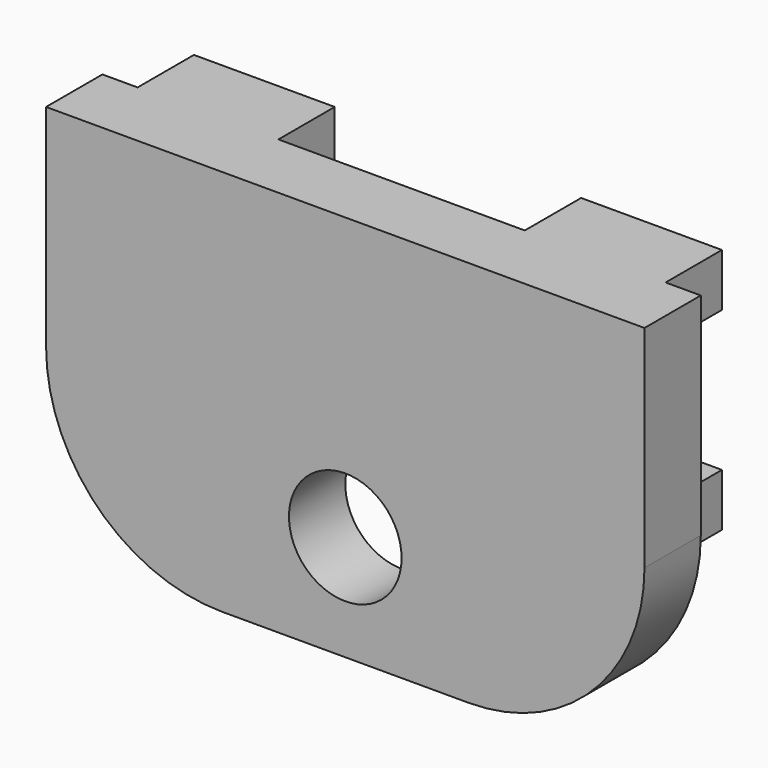
from build123d import *

# Parameters (mm, degrees)
CYLINDER067_R     = 1.6
CYLINDER067_DEPTH = 2
BOX164_W          = 17
BOX164_H          = 2
BOX164_DEPTH      = 11
FILLET036_R       = 5
BOX165_W          = 4
BOX165_H          = 2
BOX165_DEPTH      = 1.5
BOX167_W          = 4
BOX167_H          = 2
BOX167_DEPTH      = 1.5
BOX166_W          = 4
BOX166_H          = 2
BOX166_DEPTH      = 1.5
BOX168_W          = 4
BOX168_H          = 2
BOX168_DEPTH      = 1.5


with BuildPart() as cylinder148:
    # Cylinder067 → Cylinder067 (new body)
    with BuildSketch(Plane(origin=(46.5, -17, -9), x_dir=(1, 0, 0), z_dir=(0, -1, 0))):
        Circle(CYLINDER067_R)
    extrude(amount=CYLINDER067_DEPTH)


with BuildPart() as cut092:
    # Box164 → Box164 (new body)
    with BuildSketch(Plane(origin=(38, -19, -12), x_dir=(1, 0, 0), z_dir=(0, 0, 1))):
        with Locations((8.5, 1)):
            Rectangle(BOX164_W, BOX164_H)
    extrude(amount=BOX164_DEPTH)

    # Fillet036
    fillet036_edges = [cut092.edges().sort_by_distance(p)[0] for p in [
        (38, -18, -12),
        (55, -18, -12),
    ]]
    fillet(fillet036_edges, radius=FILLET036_R)

    # Cut092: cut Cylinder148
    add(cylinder148.part, mode=Mode.SUBTRACT)


with BuildPart() as cube154:
    # Box165 → Box165 (new body)
    with BuildSketch(Plane(origin=(39, -17, -2.5), x_dir=(1, 0, 0), z_dir=(0, 0, 1))):
        with Locations((2, 1)):
            Rectangle(BOX165_W, BOX165_H)
    extrude(amount=BOX165_DEPTH)


with BuildPart() as cube156:
    # Box167 → Box167 (new body)
    with BuildSketch(Plane(origin=(50, -17, -8), x_dir=(1, 0, 0), z_dir=(0, 0, 1))):
        with Locations((2, 1)):
            Rectangle(BOX167_W, BOX167_H)
    extrude(amount=BOX167_DEPTH)


with BuildPart() as cube155:
    # Box166 → Box166 (new body)
    with BuildSketch(Plane(origin=(39, -17, -8), x_dir=(1, 0, 0), z_dir=(0, 0, 1))):
        with Locations((2, 1)):
            Rectangle(BOX166_W, BOX166_H)
    extrude(amount=BOX166_DEPTH)


with BuildPart() as fusion052:
    # Box168 → Box168 (new body)
    with BuildSketch(Plane(origin=(50, -17, -2.5), x_dir=(1, 0, 0), z_dir=(0, 0, 1))):
        with Locations((2, 1)):
            Rectangle(BOX168_W, BOX168_H)
    extrude(amount=BOX168_DEPTH)

    # Fusion052: union Cut092, Cube154, Cube156, Cube155
    add(cut092.part)
    add(cube154.part)
    add(cube156.part)
    add(cube155.part)


solid = fusion052.part
